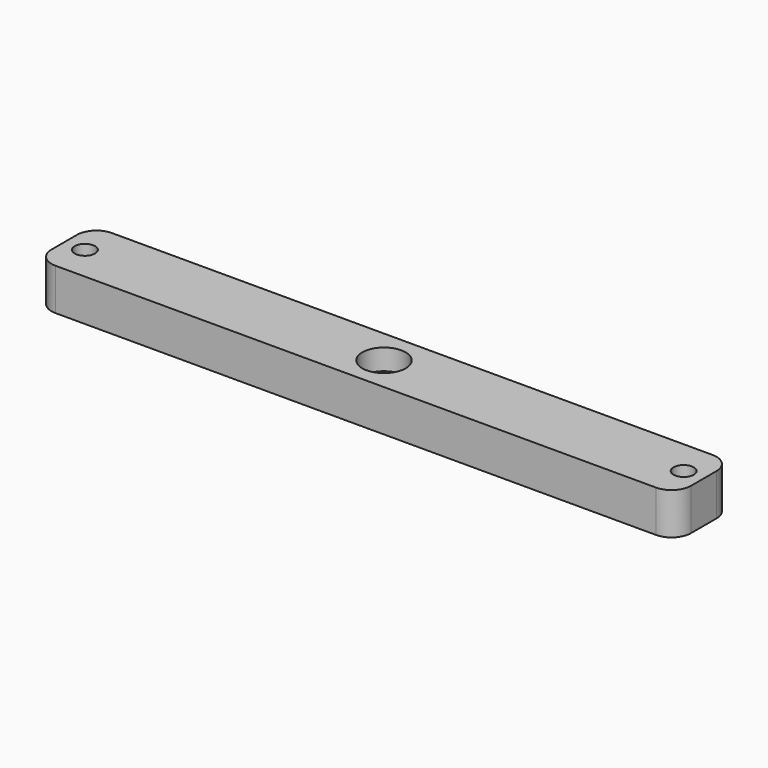
from build123d import *

# Parameters (mm, degrees)
F0_W     = 92
F0_H     = 10.172608
F0_R     = 1.455
F1_DEPTH = 3
F2_R     = 2.794
F3_R     = 3.121392
F4_DEPTH = 3
F5_R     = 1.455
F6_DEPTH = 3


with BuildPart() as f1:
    # F0 (on Top) → F1 (new body, symmetric)
    with BuildSketch(Plane.XY):
        Rectangle(F0_W, F0_H)
        with Locations((-43.031044, 0)):
            Circle(F0_R, mode=Mode.SUBTRACT)
        with Locations((43.108956, 0)):
            Circle(F0_R, mode=Mode.SUBTRACT)
    extrude(amount=F1_DEPTH, both=True)

    # F2
    f2_edges = [f1.edges().sort_by_distance(p)[0] for p in [
        (-46, 5.086304, 0),
        (-46, -5.086304, 0),
        (46, 5.086304, 0),
        (46, -5.086304, 0),
    ]]
    fillet(f2_edges, radius=F2_R)

    # F3 (on face) → F4 (cut, symmetric)
    with BuildSketch(Plane.XY.offset(3)):
        Circle(F3_R)
    extrude(amount=F4_DEPTH, both=True, mode=Mode.SUBTRACT)

    # F5 (on Top) → F6 (cut, symmetric)
    with BuildSketch(Plane.XY):
        Circle(F5_R)
    extrude(amount=F6_DEPTH, both=True, mode=Mode.SUBTRACT)


solid = f1.part
